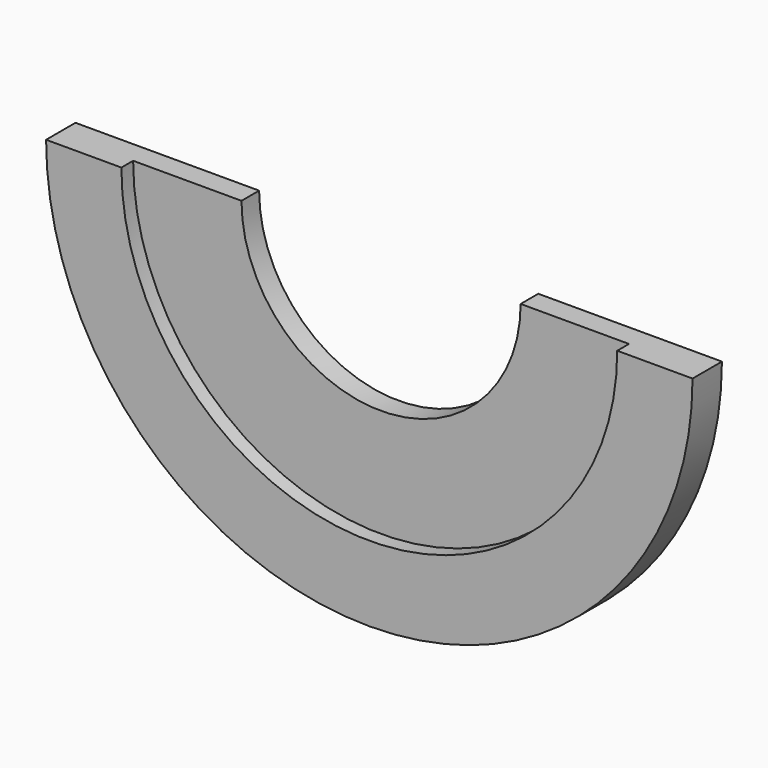
from build123d import *

# Parameters (mm, degrees)
F0_R     = 44
F0_R_2   = 19
F1_DEPTH = 5
F2_R     = 33.75
F3_DEPTH = 2
F5_DEPTH = 25


with BuildPart() as f1:
    # F0 (on Front) → F1 (new body)
    with BuildSketch(Plane.XZ):
        Circle(F0_R)
        Circle(F0_R_2, mode=Mode.SUBTRACT)
    extrude(amount=F1_DEPTH)

    # F2 (on face) → F3 (cut)
    with BuildSketch(Plane.XZ.offset(5)):
        Circle(F2_R)
    extrude(amount=-F3_DEPTH, mode=Mode.SUBTRACT)

    # F4 (on Front) → F5 (cut)
    with BuildSketch(Plane.XZ):
        Polygon((-49.323015, 0), (0, 0), (50.371692, 0), (50.371692, 35.833221), (0, 51.775392), (-49.323015, 41.89574), align=None)
    extrude(amount=F5_DEPTH, mode=Mode.SUBTRACT)


solid = f1.part
